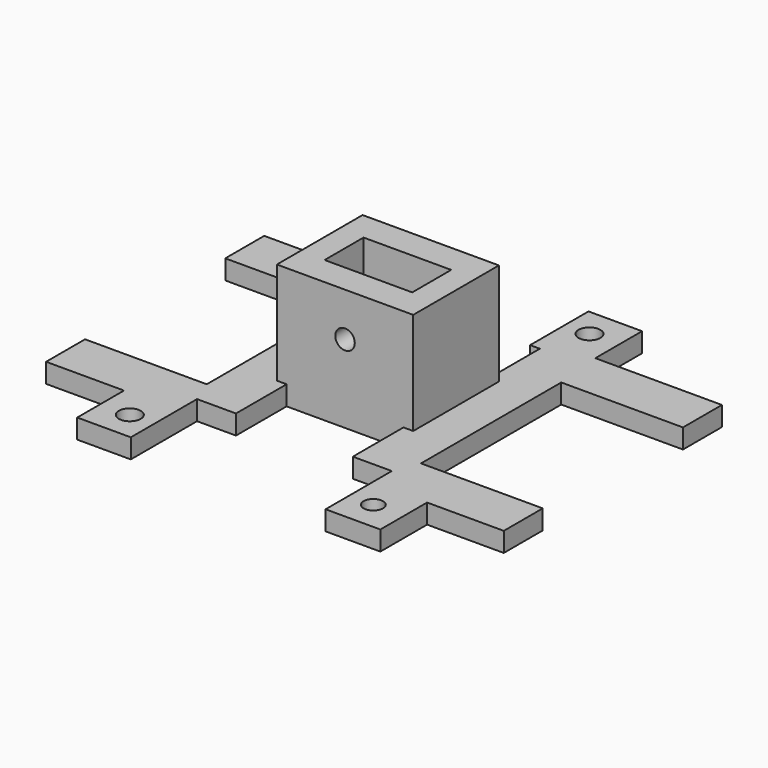
from build123d import *

# Parameters (mm, degrees)
CYLINDER_R             = 2
CYLINDER_DEPTH         = 50
BOX083_W               = 24
BOX083_H               = 13
BOX083_DEPTH           = 10
BOX082_W               = 40
BOX082_H               = 17
BOX082_DEPTH           = 10
BOX081_W               = 25
BOX081_H               = 36
BOX081_DEPTH           = 10
BOX084_W               = 24
BOX084_H               = 13
BOX084_DEPTH           = 10
BOX080_W               = 25
BOX080_H               = 36
BOX080_DEPTH           = 10
BOX085_W               = 15
BOX085_H               = 20
BOX085_DEPTH           = 10
BOX073_W               = 18
BOX073_H               = 10
BOX073_DEPTH           = 25
BOX086_W               = 28
BOX086_H               = 22
BOX086_DEPTH           = 25
CYLINDER107_R          = 1
CYLINDER107_DEPTH      = 10
CYLINDER103_R          = 2.25
CYLINDER103_DEPTH      = 10
CYLINDER104_R          = 2.25
CYLINDER104_DEPTH      = 10
CYLINDER106_R          = 2
CYLINDER106_DEPTH      = 10
CYLINDER105_R          = 2.25
CYLINDER105_DEPTH      = 10
BOX063_W               = 26
BOX063_H               = 12
BOX063_DEPTH           = 4
BOX061_W               = 26
BOX061_H               = 12
BOX061_DEPTH           = 4
BOX062_W               = 26
BOX062_H               = 12
BOX062_DEPTH           = 4
BOX064_W               = 26
BOX064_H               = 12
BOX064_DEPTH           = 4
BOX060_W               = 94
BOX060_H               = 80
BOX060_DEPTH           = 4
CUT020_PLACEMENT_ANGLE = 180


with BuildPart() as cylinder:
    # Cylinder → Cylinder (new body)
    with BuildSketch(Plane(origin=(60, 17, 156), x_dir=(1, 0, 0), z_dir=(0, 1, 0))):
        Circle(CYLINDER_R)
    extrude(amount=CYLINDER_DEPTH)


with BuildPart() as cube041:
    # Box083 → Box083 (new body)
    with BuildSketch(Plane(origin=(48, 21, 140), x_dir=(1, 0, 0), z_dir=(0, 0, 1))):
        with Locations((12, 6.5)):
            Rectangle(BOX083_W, BOX083_H)
    extrude(amount=BOX083_DEPTH)


with BuildPart() as cube040:
    # Box082 → Box082 (new body)
    with BuildSketch(Plane(origin=(40, 4, 140), x_dir=(1, 0, 0), z_dir=(0, 0, 1))):
        with Locations((20, 8.5)):
            Rectangle(BOX082_W, BOX082_H)
    extrude(amount=BOX082_DEPTH)


with BuildPart() as cube039:
    # Box081 → Box081 (new body)
    with BuildSketch(Plane(origin=(82, 26, 140), x_dir=(1, 0, 0), z_dir=(0, 0, 1))):
        with Locations((12.5, 18)):
            Rectangle(BOX081_W, BOX081_H)
    extrude(amount=BOX081_DEPTH)


with BuildPart() as cube042:
    # Box084 → Box084 (new body)
    with BuildSketch(Plane(origin=(48, 56, 140), x_dir=(1, 0, 0), z_dir=(0, 0, 1))):
        with Locations((12, 6.5)):
            Rectangle(BOX084_W, BOX084_H)
    extrude(amount=BOX084_DEPTH)


with BuildPart() as cube038:
    # Box080 → Box080 (new body)
    with BuildSketch(Plane(origin=(13, 26, 140), x_dir=(1, 0, 0), z_dir=(0, 0, 1))):
        with Locations((12.5, 18)):
            Rectangle(BOX080_W, BOX080_H)
    extrude(amount=BOX080_DEPTH)


with BuildPart() as basecuts:
    # Box085 → Box085 (new body)
    with BuildSketch(Plane(origin=(70, 69, 140), x_dir=(0, 1, 0), z_dir=(0, 0, 1))):
        with Locations((7.5, 10)):
            Rectangle(BOX085_W, BOX085_H)
    extrude(amount=BOX085_DEPTH)

    # Fusion133: union Cube041, Cube040, Cube039, Cube042, Cube038
    add(cube041.part)
    add(cube040.part)
    add(cube039.part)
    add(cube042.part)
    add(cube038.part)


with BuildPart() as basecuts001:
    # Box073 → Box073 (new body)
    with BuildSketch(Plane(origin=(51, 40, 140), x_dir=(1, 0, 0), z_dir=(0, 0, 1))):
        with Locations((9, 5)):
            Rectangle(BOX073_W, BOX073_H)
    extrude(amount=BOX073_DEPTH)

    # Fusion134: union baseCuts
    add(basecuts.part)


with BuildPart() as obj1:
    # Box086 → Box086 (new body)
    with BuildSketch(Plane(origin=(46, 34, 140), x_dir=(1, 0, 0), z_dir=(0, 0, 1))):
        with Locations((14, 11)):
            Rectangle(BOX086_W, BOX086_H)
    extrude(amount=BOX086_DEPTH)


with BuildPart() as cylinder109:
    # Cylinder107 → Cylinder107 (new body)
    with BuildSketch(Plane.XY):
        Circle(CYLINDER107_R)
    extrude(amount=CYLINDER107_DEPTH)


with BuildPart() as cylinder107:
    # Cylinder103 → Cylinder103 (new body)
    with BuildSketch(Plane(origin=(62, 3, 0), x_dir=(1, 0, 0), z_dir=(0, 0, 1))):
        Circle(CYLINDER103_R)
    extrude(amount=CYLINDER103_DEPTH)


with BuildPart() as cylinder103:
    # Cylinder104 → Cylinder104 (new body)
    with BuildSketch(Plane(origin=(72, 71, 0), x_dir=(1, 0, 0), z_dir=(0, 0, 1))):
        Circle(CYLINDER104_R)
    extrude(amount=CYLINDER104_DEPTH)


with BuildPart() as cylinder104:
    # Cylinder106 → Cylinder106 (new body)
    with BuildSketch(Plane(origin=(22, 71, 0), x_dir=(1, 0, 0), z_dir=(0, 0, 1))):
        Circle(CYLINDER106_R)
    extrude(amount=CYLINDER106_DEPTH)


with BuildPart() as screwins001:
    # Cylinder105 → Cylinder105 (new body)
    with BuildSketch(Plane(origin=(32, 3, 0), x_dir=(1, 0, 0), z_dir=(0, 0, 1))):
        Circle(CYLINDER105_R)
    extrude(amount=CYLINDER105_DEPTH)

    # Fusion123: union Cylinder109, Cylinder107, Cylinder103, Cylinder104
    add(cylinder109.part)
    add(cylinder107.part)
    add(cylinder103.part)
    add(cylinder104.part)


with BuildPart() as screwins001_1:
    # Fusion123 placement: moved
    add(screwins001.part.moved(Location((0, 3, 0))))


with BuildPart() as base004:
    # Box063 → Box063 (new body)
    with BuildSketch(Plane(origin=(78, 68, 0), x_dir=(1, 0, 0), z_dir=(0, 0, 1))):
        with Locations((13, 6)):
            Rectangle(BOX063_W, BOX063_H)
    extrude(amount=BOX063_DEPTH)


with BuildPart() as base002:
    # Box061 → Box061 (new body)
    with BuildSketch(Plane.XY):
        with Locations((13, 6)):
            Rectangle(BOX061_W, BOX061_H)
    extrude(amount=BOX061_DEPTH)


with BuildPart() as base003:
    # Box062 → Box062 (new body)
    with BuildSketch(Plane(origin=(68, 0, 0), x_dir=(1, 0, 0), z_dir=(0, 0, 1))):
        with Locations((13, 6)):
            Rectangle(BOX062_W, BOX062_H)
    extrude(amount=BOX062_DEPTH)


with BuildPart() as fusion122:
    # Box064 → Box064 (new body)
    with BuildSketch(Plane(origin=(-10.25, 68, 0), x_dir=(1, 0, 0), z_dir=(0, 0, 1))):
        with Locations((13, 6)):
            Rectangle(BOX064_W, BOX064_H)
    extrude(amount=BOX064_DEPTH)

    # Fusion122: union base004, base002, base003
    add(base004.part)
    add(base002.part)
    add(base003.part)


with BuildPart() as spine:
    # Box060 → Box060 (new body)
    with BuildSketch(Plane.XY):
        with Locations((47, 40)):
            Rectangle(BOX060_W, BOX060_H)
    extrude(amount=BOX060_DEPTH)

    # Cut019: cut Fusion122
    add(fusion122.part, mode=Mode.SUBTRACT)

    # Cut020: cut screwIns001
    add(screwins001_1.part, mode=Mode.SUBTRACT)


with BuildPart() as spine_1:
    # Cut020 placement: moved
    add(spine.part.moved(Location((107, 84, 140))).rotate(Axis((107, 84, 140), (0, 0, 1)), CUT020_PLACEMENT_ANGLE))

    # Fusion: union obj1
    add(obj1.part)

    # Cut: cut baseCuts001
    add(basecuts001.part, mode=Mode.SUBTRACT)

    # Cut021: cut Cylinder
    add(cylinder.part, mode=Mode.SUBTRACT)


solid = spine_1.part
